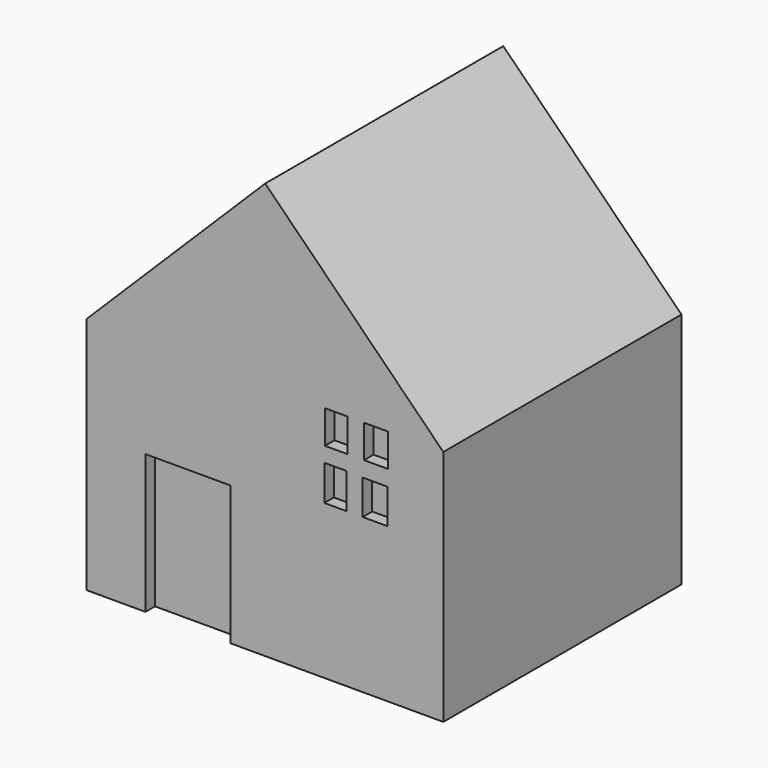
from build123d import *

# Parameters (mm, degrees)
PAD_DEPTH            = 50
SKETCH001_W          = 14.321759
SKETCH001_H          = 23.338661
POCKET_DEPTH         = 2
SKETCH004_W          = 3.777545
SKETCH004_H          = 5.566906
POCKET001_DEPTH      = 2
SKETCH005_W          = 3.988077
SKETCH005_H          = 5.534469
POCKET002_DEPTH      = 2
SKETCH006_W          = 3.743909
SKETCH006_H          = 5.941416
POCKET003_DEPTH      = 2
SKETCH007_W          = 4.200878
SKETCH007_H          = 5.837583
POCKET004_DEPTH      = 2
BODY_PLACEMENT_ANGLE = 90


with BuildPart() as part:
    # Sketch → Pad (new body)
    with BuildSketch(Plane.XY):
        Polygon((-30.008501, 0), (29.925684, 0), (29.925684, 39.928391), (0, 69.895485), (-30.008501, 40.105713), align=None)
    extrude(amount=PAD_DEPTH)

    # Sketch001 (on Face7 of Pad) → Pocket (cut)
    with BuildSketch(Plane.XY.offset(50)):
        with Locations((-12.951147, 11.66933)):
            Rectangle(SKETCH001_W, SKETCH001_H)
    extrude(amount=-POCKET_DEPTH, mode=Mode.SUBTRACT)

    # Sketch004 (on Face4 of Pocket) → Pocket001 (cut)
    with BuildSketch(Plane.XY.offset(50)):
        with Locations((11.92271, 37.153109)):
            Rectangle(SKETCH004_W, SKETCH004_H)
    extrude(amount=-POCKET001_DEPTH, mode=Mode.SUBTRACT)

    # Sketch005 (on Face4 of Pocket001) → Pocket002 (cut)
    with BuildSketch(Plane.XY.offset(50)):
        with Locations((18.594975, 37.152287)):
            Rectangle(SKETCH005_W, SKETCH005_H)
    extrude(amount=-POCKET002_DEPTH, mode=Mode.SUBTRACT)

    # Sketch006 (on Face4 of Pocket002) → Pocket003 (cut)
    with BuildSketch(Plane.XY.offset(50)):
        with Locations((11.805747, 28.857034)):
            Rectangle(SKETCH006_W, SKETCH006_H)
    extrude(amount=-POCKET003_DEPTH, mode=Mode.SUBTRACT)

    # Sketch007 (on Face4 of Pocket003) → Pocket004 (cut)
    with BuildSketch(Plane.XY.offset(50)):
        with Locations((18.480049, 28.816772)):
            Rectangle(SKETCH007_W, SKETCH007_H)
    extrude(amount=-POCKET004_DEPTH, mode=Mode.SUBTRACT)


with BuildPart() as part_1:
    # Body placement: moved
    add(part.part.rotate(Axis((0, 0, 0), (1, 0, 0)), BODY_PLACEMENT_ANGLE))


solid = part_1.part
